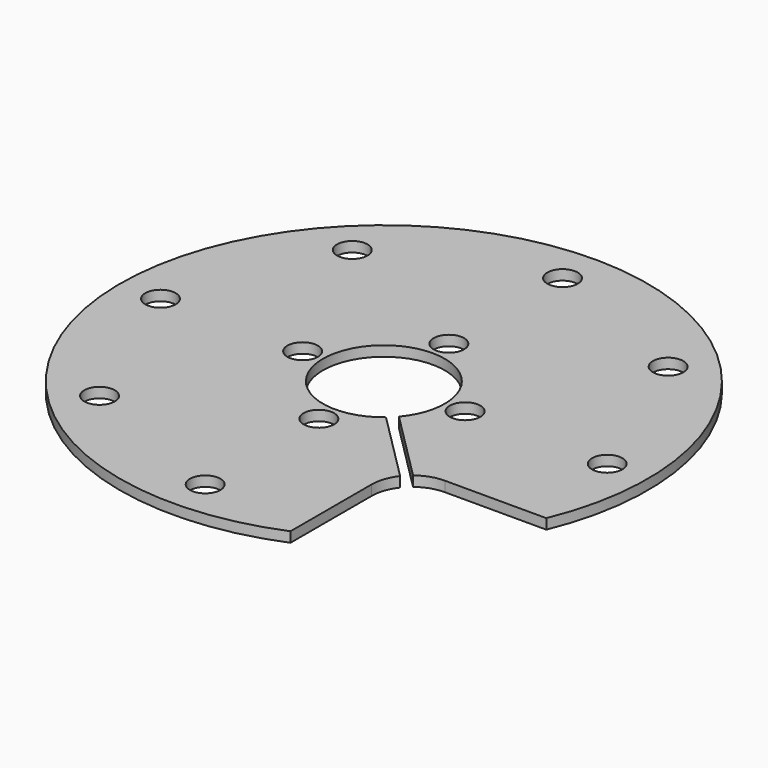
from build123d import *

# Parameters (mm, degrees)
SKETCH_R              = 26
SKETCH_R_2            = 6
PAD_DEPTH             = 1
SKETCH001_R           = 1.5
POCKET_DEPTH          = 148.092808
POLARPATTERN_COUNT    = 4
SKETCH002_R           = 1.5
POCKET001_DEPTH       = 148.092808
POLARPATTERN001_COUNT = 7
POLARPATTERN001_ANGLE = 270
POCKET002_DEPTH       = 1.001


with BuildPart() as part:
    # Sketch → Pad (new body)
    with BuildSketch(Plane.XY):
        Circle(SKETCH_R)
        Circle(SKETCH_R_2, mode=Mode.SUBTRACT)
    extrude(amount=PAD_DEPTH)

    # Sketch001 (on Face3 of Pad) → Pocket (cut, through all)
    with BuildSketch(Plane(origin=(0, 0, 0), x_dir=(1, 0, 0), z_dir=(0, 0, -1))):
        with Locations((0, 8)):
            Circle(SKETCH001_R)
    pocket = extrude(amount=-POCKET_DEPTH, mode=Mode.SUBTRACT)

    # PolarPattern: Pocket ×4 about axis
    polarpattern_axis = Axis((0, 0, 0), (0, 0, -1))
    for i in range(1, POLARPATTERN_COUNT):
        add(pocket.rotate(polarpattern_axis, i * 360 / POLARPATTERN_COUNT), mode=Mode.SUBTRACT)

    # Sketch002 (on Face2 of PolarPattern) → Pocket001 (cut, through all)
    with BuildSketch(Plane(origin=(0, 0, 0), x_dir=(1, 0, 0), z_dir=(0, 0, -1))):
        with Locations((0, 22)):
            Circle(SKETCH002_R)
    pocket001 = extrude(amount=-POCKET001_DEPTH, mode=Mode.SUBTRACT)

    # PolarPattern001: Pocket001 ×7 about axis
    polarpattern001_axis = Axis((0, 0, 0), (0, 0, -1))
    for i in range(1, POLARPATTERN001_COUNT):
        add(pocket001.rotate(polarpattern001_axis, i * POLARPATTERN001_ANGLE / (POLARPATTERN001_COUNT - 1)), mode=Mode.SUBTRACT)

    # Sketch003 (on Face2 of PolarPattern001) → Pocket002 (cut, through all)
    with BuildSketch(Plane(origin=(0, 0, 0), x_dir=(1, 0, 0), z_dir=(0, 0, -1))):
        with BuildLine():
            Line((10, 28.284271), (10, 14))
            ThreePointArc((10, 14), (10.215876, 12.703695), (10.840204, 11.54731))
            Line((10.840204, 11.54731), (-0.353553, 0.353553))
            Line((-0.353553, 0.353553), (0.353553, -0.353553))
            Line((0.353553, -0.353553), (11.54731, 10.840204))
            ThreePointArc((11.54731, 10.840204), (12.703695, 10.215876), (14, 10))
            Line((14, 10), (28.284271, 10))
            ThreePointArc((28.284271, 10), (21.213203, 21.213203), (10, 28.284271))
        make_face()
    extrude(amount=-POCKET002_DEPTH, mode=Mode.SUBTRACT)


solid = part.part
